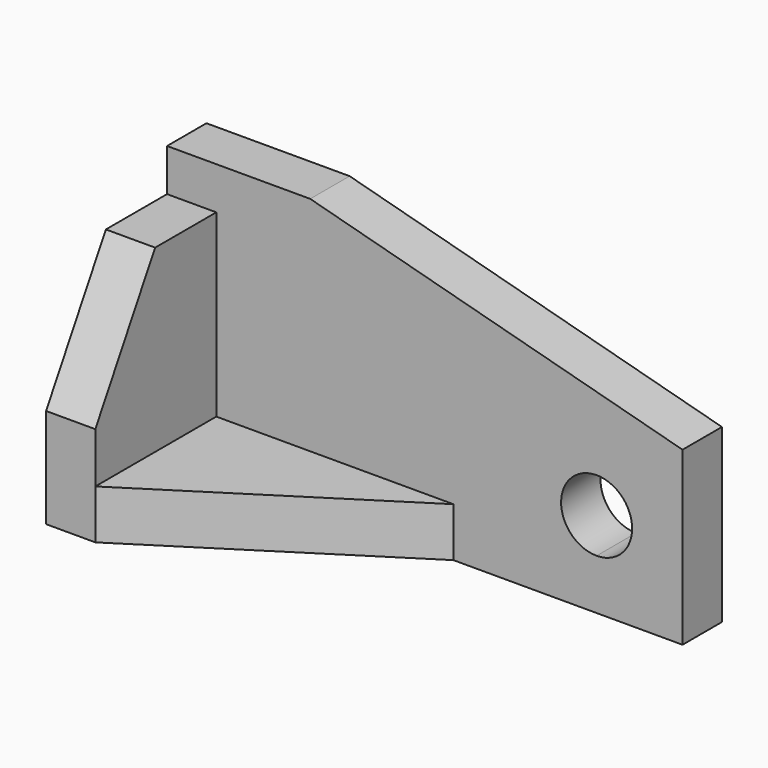
from build123d import *

# Parameters (mm, degrees)
F1_DEPTH = 10.922
F2_DEPTH = 60.198
F4_DEPTH = 25.4
F0_W     = 10.922
F0_H     = 33.528
F5_DEPTH = 50.8
F7_DEPTH = 25.4
F9_DEPTH = 10.923


with BuildPart() as f1:
    # F0 (on Top) → F1 (new body)
    with BuildSketch(Plane.XY):
        Polygon((-65.481253, -42.767733), (-65.481253, -76.295733), (-12.903253, -42.767733), align=None)
    extrude(amount=F1_DEPTH)

    # F0 (on Top) → F2 (join)
    with BuildSketch(Plane.XY):
        Polygon((-76.403253, -31.845733), (-76.403253, -42.767733), (-65.481253, -42.767733), (-12.903253, -42.767733), (37.896747, -42.767733), (37.896747, -31.845733), align=None)
    extrude(amount=F2_DEPTH)

    # F3 (on face) → F4 (cut)
    with BuildSketch(Plane.XZ.offset(42.767733)):
        Polygon((37.896747, 60.198), (-44.653253, 60.198), (37.896747, 38.078794), align=None)
    extrude(amount=-F4_DEPTH, mode=Mode.SUBTRACT)

    # F0 (on Top) → F5 (join)
    with BuildSketch(Plane.XY):
        with Locations((-70.942253, -59.531733)):
            Rectangle(F0_W, F0_H)
    extrude(amount=F5_DEPTH)

    # F6 (on face) → F7 (cut)
    with BuildSketch(Plane(origin=(-76.403253, 0, 0), x_dir=(0, -1, 0), z_dir=(-1, 0, 0))):
        Polygon((59.724626, 50.8), (76.295733, 22.098), (76.295733, 50.8), align=None)
    extrude(amount=-F7_DEPTH, mode=Mode.SUBTRACT)

    # F8 (on face) → F9 (cut, through all)
    with BuildSketch(Plane.XZ.offset(42.767733)):
        with BuildLine():
            ThreePointArc((18.846747, 11.176), (24.414506, 13.482241), (26.720747, 19.05))
            ThreePointArc((26.720747, 19.05), (13.278988, 24.617759), (18.846747, 11.176))
        make_face()
    extrude(amount=-F9_DEPTH, mode=Mode.SUBTRACT)


solid = f1.part
